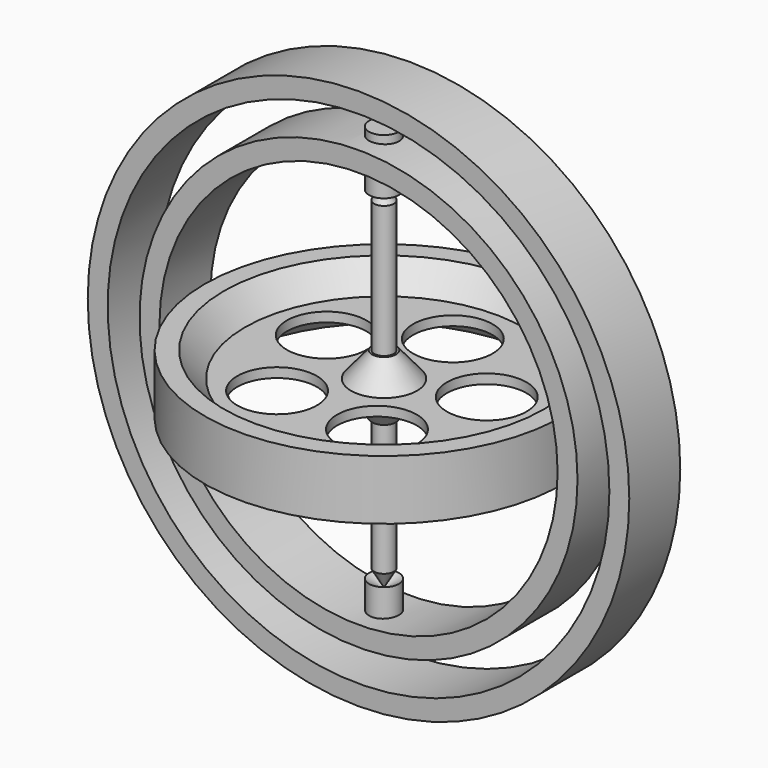
from build123d import *

# Parameters (mm, degrees)
F0_R      = 34.925
F0_R_2    = 31.75
F1_DEPTH  = 5.08
F4_D      = 3.175
F8_D      = 12.7
F10_D     = 4.7625
F10_DEPTH = 34.926
F11_D     = 4.7625
F14_R     = 43.18
F14_R_2   = 40.005
F15_DEPTH = 5.08


with BuildPart() as f1:
    # F0 (on Front) → F1 (new body, symmetric)
    with BuildSketch(Plane.XZ):
        Circle(F0_R)
        Circle(F0_R_2, mode=Mode.SUBTRACT)
    extrude(amount=F1_DEPTH, both=True)

    # F10 (through all, one way)
    with BuildSketch(Plane(origin=(0, 0, 0), x_dir=(1, 0, 0), z_dir=(0, 0, -1))):
        with Locations((0, 0)):
            Circle(F10_D / 2)
    extrude(amount=-F10_DEPTH, mode=Mode.SUBTRACT)

    # F11 (through all)
    with Locations(Plane.XY):
        with Locations((0, 0)):
            Hole(F11_D / 2)


with BuildPart() as f2:
    # F0 (on Front) → F2 (revolve)
    with BuildSketch(Plane.XZ):
        Polygon((-28.575, 4.7625), (-28.575, 0), (-28.575, -4.7625), (-25.527, -4.7625), (-22.1701819255, -0.762), (-5.2618180745, -0.762), (-1.905, -4.7625), (0, -4.7625), (0, 4.7625), (-1.905, 4.7625), (-5.2618180745, 0.762), (-22.1701819255, 0.762), (-25.527, 4.7625), align=None)
    revolve(axis=Axis((0, 0, 0), (0, 0, -1)))

    # F4 (through all)
    with Locations(Plane.XY.offset(4.7625)):
        with Locations((0, 0)):
            Hole(F4_D / 2)

    # F8 (through all)
    with Locations(Plane.XY.offset(0.762)):
        with Locations((-12.8888239867, 4.6911482859), (0, 13.716), (13.0811816965, 4.124480746), (7.867174401, -11.2354894395), (-8.3497717603, -10.8816344154)):
            Hole(F8_D / 2)


with BuildPart() as f6:
    # F5 (on Front) → F6 (revolve)
    with BuildSketch(Plane.XZ):
        Polygon((-1.5875, 0), (0, 0), (0, 28.575), (-1.5875, 25.825369343), align=None)
        Polygon((0, -28.575), (0, 0), (-1.5875, 0), (-1.5875, -25.825369343), align=None)
    revolve(axis=Axis((0, 0, -14.2875), (0, 0, -1)))


with BuildPart() as f13:
    # F12 (on Front) → F13 (revolve)
    with BuildSketch(Plane.XZ):
        Polygon((-2.38125, 27.2918530272), (0, 28.6666683557), (0, 36.1818530272), (-2.38125, 36.1818530272), align=None)
    revolve(axis=Axis((0, 0, 32.4242606915), (0, 0, -1)))


with BuildPart() as f13b:
    # F12 (on Front) → F13, piece 2 (revolve)
    with BuildSketch(Plane.XZ):
        Polygon((-2.38125, -36.1818530272), (0, -36.1818530272), (0, -28.6666683557), (-2.38125, -27.2918530272), align=None)
    revolve(axis=Axis((0, 0, 32.4242606915), (0, 0, -1)))


with BuildPart() as f15:
    # F14 (on Front) → F15 (new body, symmetric)
    with BuildSketch(Plane.XZ):
        Circle(F14_R)
        Circle(F14_R_2, mode=Mode.SUBTRACT)
    extrude(amount=F15_DEPTH, both=True)


solid = Compound([f1.part, f2.part, f6.part, f13.part, f13b.part, f15.part])
